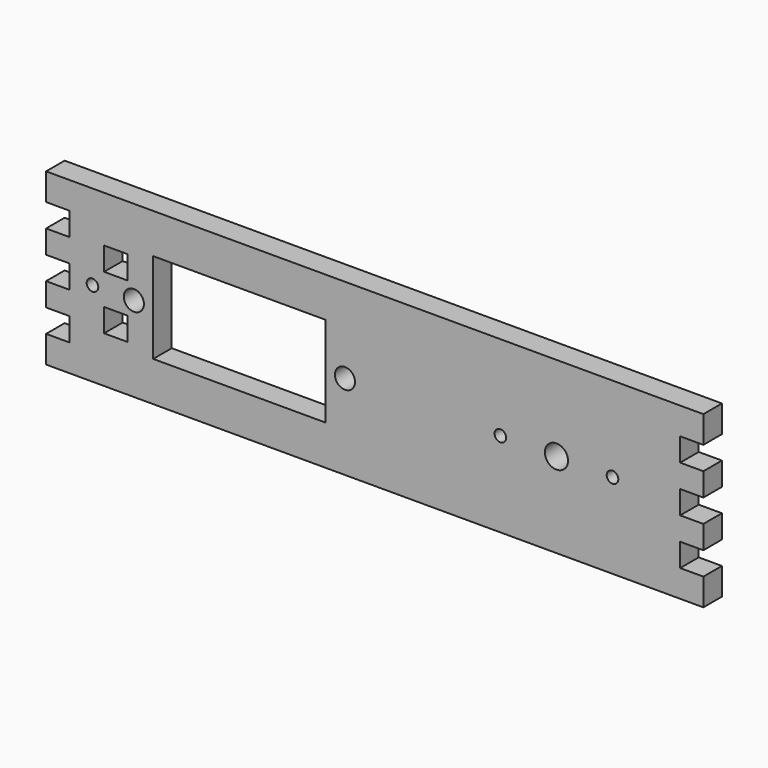
from build123d import *

# Parameters (mm, degrees)
F1_DEPTH = 3
F2_W     = 22.3
F2_H     = 11.7
F2_R     = 1.5
F2_R_2   = 0.75
F2_R_3   = 1.3
F2_W_2   = 3
F2_H_2   = 3
F3_DEPTH = 25


with BuildPart() as f1:
    # F0 (on Front) → F1 (new body)
    with BuildSketch(Plane.XZ):
        Polygon((42.913025, 16.904725), (-42.086975, 16.904725), (-42.086975, 13.404725), (-39.086975, 13.404725), (-39.086975, 10.404725), (-42.086975, 10.404725), (-42.086975, 7.404725), (-39.086975, 7.404725), (-39.086975, 4.404725), (-42.086975, 4.404725), (-42.086975, 1.404725), (-39.086975, 1.404725), (-39.086975, -1.595275), (-42.086975, -1.595275), (-42.086975, -5.095275), (42.913025, -5.095275), (42.913025, -1.595275), (39.913025, -1.595275), (39.913025, 1.404725), (42.913025, 1.404725), (42.913025, 4.404725), (39.913025, 4.404725), (39.913025, 7.404725), (42.913025, 7.404725), (42.913025, 10.404725), (39.913025, 10.404725), (39.913025, 13.404725), (42.913025, 13.404725), align=None)
    extrude(amount=F1_DEPTH)

    # F2 (on face) → F3 (cut)
    with BuildSketch(Plane.XZ.offset(3)):
        with Locations((-17.086975, 5.904725)):
            Rectangle(F2_W, F2_H)
        with Locations((23.913025, 5.904725)):
            Circle(F2_R)
        with Locations((16.663025, 5.904725)):
            Circle(F2_R_2)
        with Locations((31.163025, 5.904725)):
            Circle(F2_R_2)
        with Locations((-3.436975, 5.904725)):
            Circle(F2_R_3)
        with Locations((-30.736975, 5.904725)):
            Circle(F2_R_3)
        with Locations((-36.086975, 5.904725)):
            Circle(F2_R_2)
        with Locations((-33.086975, 2.404725)):
            Rectangle(F2_W_2, F2_H_2)
        with Locations((-33.086975, 9.404725)):
            Rectangle(F2_W_2, F2_H_2)
    extrude(amount=-F3_DEPTH, mode=Mode.SUBTRACT)


solid = f1.part
